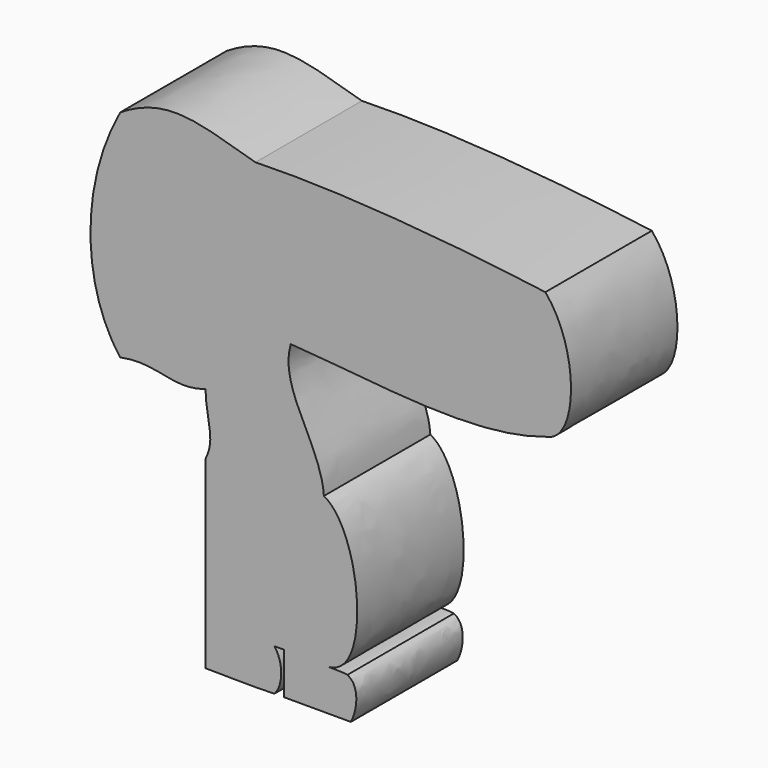
from build123d import *

# Parameters (mm, degrees)
F1_DEPTH = 25
F2_DEPTH = 25


with BuildPart() as f1:
    # F0 (on Front) → F1 (new body)
    with BuildSketch(Plane.XZ):
        with BuildLine():
            add(Edge.make_bspline(
                [(0, 27.6862987394), (16.6796203151, 28.2034940451), (38.3860760438, 26.0951526086), (54.4788755361, 23.9210502088)],
                knots=[0, 0, 0, 0, 54.6088360632, 54.6088360632, 54.6088360632, 54.6088360632], degree=3))
            add(Edge.make_bspline(
                [(0, 27.6862987394), (-10.8768893406, 30.7967068715), (-16.5566008002, 33.2203069514), (-25.4100486636, 27.6862987394)],
                knots=[0, 0, 0, 0, 25.4100486636, 25.4100486636, 25.4100486636, 25.4100486636], degree=3))
            add(Edge.make_bspline(
                [(-25.4100486636, 27.6862987394), (-33.2035310566, 13.4667754173), (-32.5410552323, -3.6254199222), (-25.4100486636, -12.8578795793)],
                knots=[0, 0, 0, 0, 40.5441783186, 40.5441783186, 40.5441783186, 40.5441783186], degree=3))
            add(Edge.make_bspline(
                [(-25.4100486636, -12.8578795793), (-18.3260211883, -11.4062287705), (-15.5515372751, -15.0504039361), (-9.3868758597, -12.8578795793)],
                knots=[0, 0, 0, 0, 16.0231728039, 16.0231728039, 16.0231728039, 16.0231728039], degree=3))
            add(Edge.make_bspline(
                [(-9.3868758597, -12.8578795793), (-9.3868758597, -17.3541016308), (-7.3570651382, -20.3983004515), (-9.3868758597, -24.4285451423)],
                knots=[0, 0, 0, 0, 11.570665563, 11.570665563, 11.570665563, 11.570665563], degree=3))
            add(Edge.make_bspline(
                [(-9.3868758597, -24.4285451423), (-9.3868758597, -32.6275384228), (-9.3868758597, -40.8957842737), (-9.3868758597, -49.0947775543)],
                knots=[0, 0, 0, 0, 24.666232412, 24.666232412, 24.666232412, 24.666232412], degree=3))
            add(Edge.make_bspline(
                [(-9.3868758597, -49.0947775543), (-9.3868758597, -52.4669426183), (-9.3868758597, -55.6938308612), (-9.3868758597, -59.0659959252)],
                knots=[0, 0, 0, 0, 9.9712183709, 9.9712183709, 9.9712183709, 9.9712183709], degree=3))
            add(Edge.make_bspline(
                [(-9.3868758597, -59.0659959252), (-4.8906540411, -59.0659959252), (-0.8265095118, -59.2609767353), (3.5657002554, -59.0659959252)],
                knots=[0, 0, 0, 0, 12.9525761151, 12.9525761151, 12.9525761151, 12.9525761151], degree=3))
            add(Edge.make_bspline(
                [(3.5657002554, -51.2038030888), (5.3739403374, -53.5912364721), (5.1391562447, -57.3704887664), (3.5657002554, -59.0659959252)],
                knots=[0, 0, 0, 0, 7.8621928364, 7.8621928364, 7.8621928364, 7.8621928364], degree=3))
            add(Edge.make_bspline(
                [(3.5657002554, -51.2038030888), (4.1805936213, -51.2038030888), (4.7954869871, -51.2038030888), (5.410380353, -51.2038030888)],
                knots=[0, 0, 0, 0, 1.8446800976, 1.8446800976, 1.8446800976, 1.8446800976], degree=3))
            add(Edge.make_bspline(
                [(5.410380353, -59.0659959252), (5.410380353, -56.4211590226), (5.410380353, -53.8486399914), (5.410380353, -51.2038030888)],
                knots=[0, 0, 0, 0, 7.8621928364, 7.8621928364, 7.8621928364, 7.8621928364], degree=3))
            add(Edge.make_bspline(
                [(12.8635961467, -59.0659959252), (11.8074451477, -59.0659959252), (6.4665313519, -59.0659959252), (5.410380353, -59.0659959252)],
                knots=[0, 0, 0, 0, 7.4532157937, 7.4532157937, 7.4532157937, 7.4532157937], degree=3))
            add(Edge.make_bspline(
                [(17.928149578, -59.0659959252), (13.3812715451, -59.1178093189), (17.3301265652, -59.090289033), (12.8635961467, -59.0659959252)],
                knots=[0, 0, 0, 0, 5.0645534314, 5.0645534314, 5.0645534314, 5.0645534314], degree=3))
            add(Edge.make_bspline(
                [(17.2803960741, -51.4933876693), (19.7103396058, -52.6835657656), (19.08519026, -56.9505158861), (17.928149578, -59.0659959252)],
                knots=[0, 0, 0, 0, 7.6002618638, 7.6002618638, 7.6002618638, 7.6002618638], degree=3))
            add(Edge.make_bspline(
                [(13.654217176, -51.3139771687), (17.7654348468, -51.4331050273), (15.9926018867, -51.3294887656), (17.2803960741, -51.4933876693)],
                knots=[0.2462376888, 0.2462376888, 0.2462376888, 0.2462376888, 4.4214584712, 4.4214584712, 4.4214584712, 4.4214584712], degree=3))
            add(Edge.make_bspline(
                [(12.8635961467, -23.3302187194), (19.9044561336, -27.0819576453), (22.1421128676, -50.8649725158), (13.654217176, -51.3139771687)],
                knots=[0, 0, 0, 0, 27.1481964254, 27.1481964254, 27.1481964254, 27.1481964254], degree=3))
            add(Edge.make_bspline(
                [(6.6355882659, -0.2411532101), (4.3193641621, -8.1446198373), (12.3277681457, -15.1127369167), (12.8635961467, -23.3302187194)],
                knots=[0, 0, 0, 0, 23.914285025, 23.914285025, 23.914285025, 23.914285025], degree=3))
            add(Edge.make_bspline(
                [(6.6355882659, -0.2411532101), (22.1245938581, -1.219978708), (40.7353670915, -4.6262567835), (54.4788755361, 0)],
                knots=[7.0133592268, 7.0133592268, 7.0133592268, 7.0133592268, 54.4788755361, 54.4788755361, 54.4788755361, 54.4788755361], degree=3))
            add(Edge.make_bspline(
                [(54.4788755361, 23.9210502088), (60.8903667061, 16.5228074724), (60.9189283628, 0.8926317144), (54.4788755361, 0)],
                knots=[0, 0, 0, 0, 23.9210502088, 23.9210502088, 23.9210502088, 23.9210502088], degree=3))
        make_face()
        with BuildLine():
            add(Edge.make_bspline(
                [(12.8635961467, -51.2904753379), (13.1488253912, -51.2991510662), (13.4117541327, -51.3069514878), (13.654217176, -51.3139771687)],
                knots=[0, 0, 0, 0, 0.2462376888, 0.2462376888, 0.2462376888, 0.2462376888], degree=3))
            add(Edge.make_bspline(
                [(13.654217176, -51.3139771687), (13.4003261953, -51.3274078511), (13.1368386863, -51.3199607754), (12.8635961467, -51.2904753379)],
                knots=[27.1481964254, 27.1481964254, 27.1481964254, 27.1481964254, 27.9602566185, 27.9602566185, 27.9602566185, 27.9602566185], degree=3))
        make_face(mode=Mode.SUBTRACT)
        with BuildLine():
            add(Edge.make_bspline(
                [(13.654217176, -51.3139771687), (13.4003261953, -51.3274078511), (13.1368386863, -51.3199607754), (12.8635961467, -51.2904753379)],
                knots=[27.1481964254, 27.1481964254, 27.1481964254, 27.1481964254, 27.9602566185, 27.9602566185, 27.9602566185, 27.9602566185], degree=3))
            add(Edge.make_bspline(
                [(12.8635961467, -51.2904753379), (13.1488253912, -51.2991510662), (13.4117541327, -51.3069514878), (13.654217176, -51.3139771687)],
                knots=[0, 0, 0, 0, 0.2462376888, 0.2462376888, 0.2462376888, 0.2462376888], degree=3))
        make_face()
    extrude(amount=F1_DEPTH)

    # F0 (on Front) → F2 (join)
    with BuildSketch(Plane.XZ):
        with BuildLine():
            add(Edge.make_bspline(
                [(0, 27.6862987394), (16.6796203151, 28.2034940451), (38.3860760438, 26.0951526086), (54.4788755361, 23.9210502088)],
                knots=[0, 0, 0, 0, 54.6088360632, 54.6088360632, 54.6088360632, 54.6088360632], degree=3))
            add(Edge.make_bspline(
                [(0, 27.6862987394), (-10.8768893406, 30.7967068715), (-16.5566008002, 33.2203069514), (-25.4100486636, 27.6862987394)],
                knots=[0, 0, 0, 0, 25.4100486636, 25.4100486636, 25.4100486636, 25.4100486636], degree=3))
            add(Edge.make_bspline(
                [(-25.4100486636, 27.6862987394), (-33.2035310566, 13.4667754173), (-32.5410552323, -3.6254199222), (-25.4100486636, -12.8578795793)],
                knots=[0, 0, 0, 0, 40.5441783186, 40.5441783186, 40.5441783186, 40.5441783186], degree=3))
            add(Edge.make_bspline(
                [(-25.4100486636, -12.8578795793), (-18.3260211883, -11.4062287705), (-15.5515372751, -15.0504039361), (-9.3868758597, -12.8578795793)],
                knots=[0, 0, 0, 0, 16.0231728039, 16.0231728039, 16.0231728039, 16.0231728039], degree=3))
            add(Edge.make_bspline(
                [(-9.3868758597, -12.8578795793), (-9.3868758597, -17.3541016308), (-7.3570651382, -20.3983004515), (-9.3868758597, -24.4285451423)],
                knots=[0, 0, 0, 0, 11.570665563, 11.570665563, 11.570665563, 11.570665563], degree=3))
            add(Edge.make_bspline(
                [(-9.3868758597, -24.4285451423), (-9.3868758597, -32.6275384228), (-9.3868758597, -40.8957842737), (-9.3868758597, -49.0947775543)],
                knots=[0, 0, 0, 0, 24.666232412, 24.666232412, 24.666232412, 24.666232412], degree=3))
            add(Edge.make_bspline(
                [(-9.3868758597, -49.0947775543), (-9.3868758597, -52.4669426183), (-9.3868758597, -55.6938308612), (-9.3868758597, -59.0659959252)],
                knots=[0, 0, 0, 0, 9.9712183709, 9.9712183709, 9.9712183709, 9.9712183709], degree=3))
            add(Edge.make_bspline(
                [(-9.3868758597, -59.0659959252), (-4.8906540411, -59.0659959252), (-0.8265095118, -59.2609767353), (3.5657002554, -59.0659959252)],
                knots=[0, 0, 0, 0, 12.9525761151, 12.9525761151, 12.9525761151, 12.9525761151], degree=3))
            add(Edge.make_bspline(
                [(3.5657002554, -51.2038030888), (5.3739403374, -53.5912364721), (5.1391562447, -57.3704887664), (3.5657002554, -59.0659959252)],
                knots=[0, 0, 0, 0, 7.8621928364, 7.8621928364, 7.8621928364, 7.8621928364], degree=3))
            add(Edge.make_bspline(
                [(3.5657002554, -51.2038030888), (4.1805936213, -51.2038030888), (4.7954869871, -51.2038030888), (5.410380353, -51.2038030888)],
                knots=[0, 0, 0, 0, 1.8446800976, 1.8446800976, 1.8446800976, 1.8446800976], degree=3))
            add(Edge.make_bspline(
                [(5.410380353, -59.0659959252), (5.410380353, -56.4211590226), (5.410380353, -53.8486399914), (5.410380353, -51.2038030888)],
                knots=[0, 0, 0, 0, 7.8621928364, 7.8621928364, 7.8621928364, 7.8621928364], degree=3))
            add(Edge.make_bspline(
                [(12.8635961467, -59.0659959252), (11.8074451477, -59.0659959252), (6.4665313519, -59.0659959252), (5.410380353, -59.0659959252)],
                knots=[0, 0, 0, 0, 7.4532157937, 7.4532157937, 7.4532157937, 7.4532157937], degree=3))
            add(Edge.make_bspline(
                [(17.928149578, -59.0659959252), (13.3812715451, -59.1178093189), (17.3301265652, -59.090289033), (12.8635961467, -59.0659959252)],
                knots=[0, 0, 0, 0, 5.0645534314, 5.0645534314, 5.0645534314, 5.0645534314], degree=3))
            add(Edge.make_bspline(
                [(17.2803960741, -51.4933876693), (19.7103396058, -52.6835657656), (19.08519026, -56.9505158861), (17.928149578, -59.0659959252)],
                knots=[0, 0, 0, 0, 7.6002618638, 7.6002618638, 7.6002618638, 7.6002618638], degree=3))
            add(Edge.make_bspline(
                [(13.654217176, -51.3139771687), (17.7654348468, -51.4331050273), (15.9926018867, -51.3294887656), (17.2803960741, -51.4933876693)],
                knots=[0.2462376888, 0.2462376888, 0.2462376888, 0.2462376888, 4.4214584712, 4.4214584712, 4.4214584712, 4.4214584712], degree=3))
            add(Edge.make_bspline(
                [(12.8635961467, -23.3302187194), (19.9044561336, -27.0819576453), (22.1421128676, -50.8649725158), (13.654217176, -51.3139771687)],
                knots=[0, 0, 0, 0, 27.1481964254, 27.1481964254, 27.1481964254, 27.1481964254], degree=3))
            add(Edge.make_bspline(
                [(6.6355882659, -0.2411532101), (4.3193641621, -8.1446198373), (12.3277681457, -15.1127369167), (12.8635961467, -23.3302187194)],
                knots=[0, 0, 0, 0, 23.914285025, 23.914285025, 23.914285025, 23.914285025], degree=3))
            add(Edge.make_bspline(
                [(6.6355882659, -0.2411532101), (22.1245938581, -1.219978708), (40.7353670915, -4.6262567835), (54.4788755361, 0)],
                knots=[7.0133592268, 7.0133592268, 7.0133592268, 7.0133592268, 54.4788755361, 54.4788755361, 54.4788755361, 54.4788755361], degree=3))
            add(Edge.make_bspline(
                [(54.4788755361, 23.9210502088), (60.8903667061, 16.5228074724), (60.9189283628, 0.8926317144), (54.4788755361, 0)],
                knots=[0, 0, 0, 0, 23.9210502088, 23.9210502088, 23.9210502088, 23.9210502088], degree=3))
        make_face()
        with BuildLine():
            add(Edge.make_bspline(
                [(12.8635961467, -51.2904753379), (13.1488253912, -51.2991510662), (13.4117541327, -51.3069514878), (13.654217176, -51.3139771687)],
                knots=[0, 0, 0, 0, 0.2462376888, 0.2462376888, 0.2462376888, 0.2462376888], degree=3))
            add(Edge.make_bspline(
                [(13.654217176, -51.3139771687), (13.4003261953, -51.3274078511), (13.1368386863, -51.3199607754), (12.8635961467, -51.2904753379)],
                knots=[27.1481964254, 27.1481964254, 27.1481964254, 27.1481964254, 27.9602566185, 27.9602566185, 27.9602566185, 27.9602566185], degree=3))
        make_face(mode=Mode.SUBTRACT)
        with BuildLine():
            add(Edge.make_bspline(
                [(13.654217176, -51.3139771687), (13.4003261953, -51.3274078511), (13.1368386863, -51.3199607754), (12.8635961467, -51.2904753379)],
                knots=[27.1481964254, 27.1481964254, 27.1481964254, 27.1481964254, 27.9602566185, 27.9602566185, 27.9602566185, 27.9602566185], degree=3))
            add(Edge.make_bspline(
                [(12.8635961467, -51.2904753379), (13.1488253912, -51.2991510662), (13.4117541327, -51.3069514878), (13.654217176, -51.3139771687)],
                knots=[0, 0, 0, 0, 0.2462376888, 0.2462376888, 0.2462376888, 0.2462376888], degree=3))
        make_face()
    extrude(amount=F2_DEPTH)


solid = f1.part
